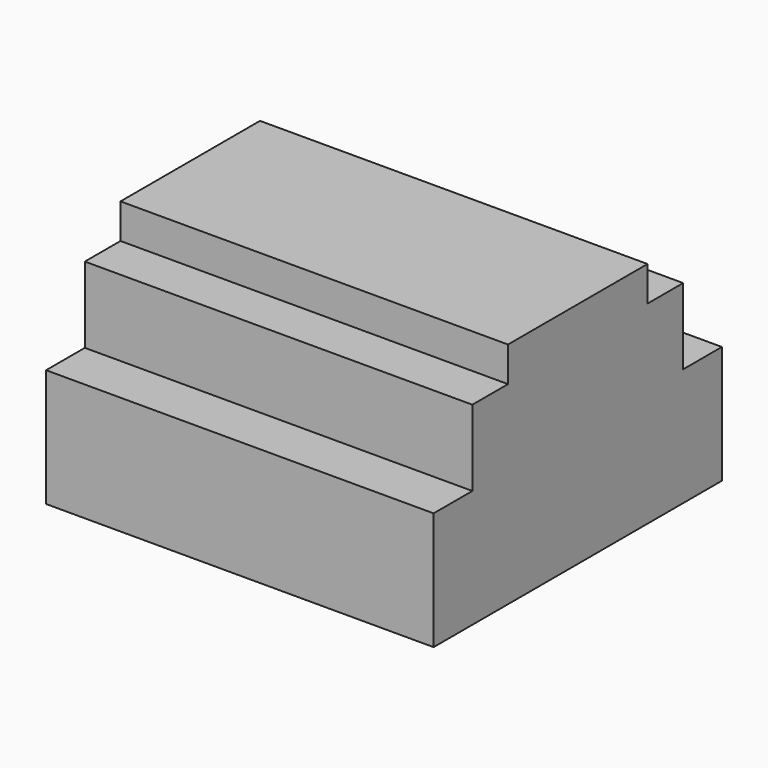
from build123d import *

# Parameters (mm, degrees)
F0_W     = 100
F0_H     = 45
F1_DEPTH = 59
F0_H_2   = 11.5
F2_DEPTH = 50
F0_H_3   = 12.5
F3_DEPTH = 30.4


with BuildPart() as f1:
    # F0 (on Top) → F1 (new body)
    with BuildSketch(Plane.XY):
        Rectangle(F0_W, F0_H)
    extrude(amount=F1_DEPTH)

    # F0 (on Top) → F2 (join)
    with BuildSketch(Plane.XY):
        with Locations((0, 28.25)):
            Rectangle(F0_W, F0_H_2)
        with Locations((0, -28.25)):
            Rectangle(F0_W, F0_H_2)
    extrude(amount=F2_DEPTH)

    # F0 (on Top) → F3 (join)
    with BuildSketch(Plane.XY):
        with Locations((0, 40.25)):
            Rectangle(F0_W, F0_H_3)
        with Locations((0, -40.25)):
            Rectangle(F0_W, F0_H_3)
    extrude(amount=F3_DEPTH)


solid = f1.part
